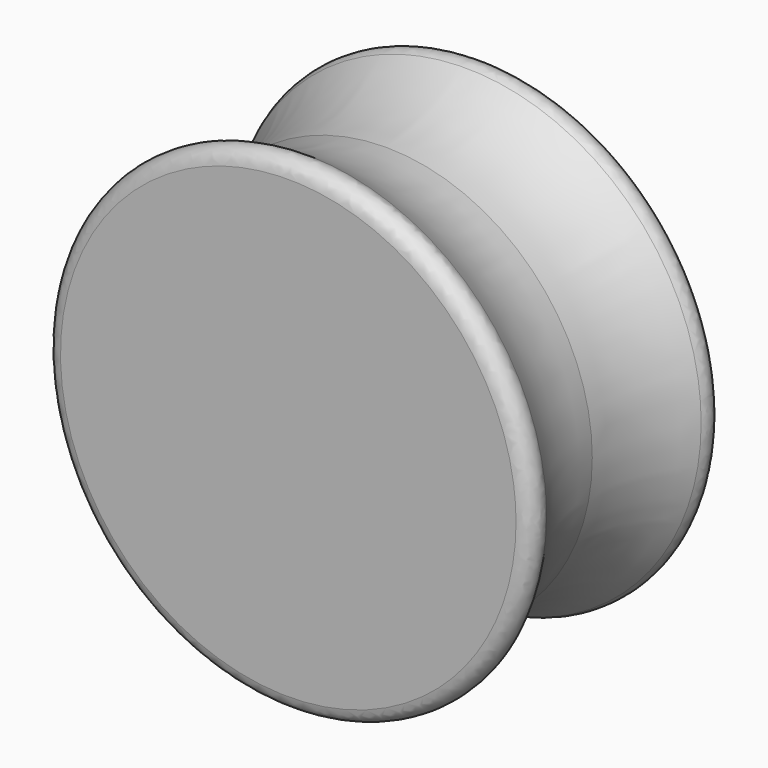
from build123d import *

# Parameters (mm, degrees)
F2_R = 0.5


with BuildPart() as f1:
    # F0 (on Top) → F1 (revolve)
    with BuildSketch(Plane.XY):
        with BuildLine():
            Line((-41.3051520586, -36.2317898357), (-41.3051520586, -40.3967898357))
            Line((-41.3051520586, -40.3967898357), (-32.4301520586, -40.3967898357))
            ThreePointArc((-32.4301520586, -40.3967898357), (-33.7677132318, -38.499358804), (-34.2651520586, -36.2317898357))
            Line((-34.2651520586, -36.2317898357), (-41.3051520586, -36.2317898357))
        make_face()
        with BuildLine():
            Line((-41.3051520586, -32.0667898357), (-41.3051520586, -36.2317898357))
            Line((-41.3051520586, -36.2317898357), (-34.2651520586, -36.2317898357))
            ThreePointArc((-34.2651520586, -36.2317898357), (-33.8600314845, -33.987407396), (-32.6301520586, -32.0667898357))
            Line((-32.6301520586, -32.0667898357), (-41.3051520586, -32.0667898357))
        make_face()
    revolve(axis=Axis((-41.3051520586, -36.2317898357, 0), (0, 1, 0)))

    # F2
    f2_edges = [f1.edges().sort_by_distance(p)[0] for p in [
        (-50.180152, -40.39679, 0),
        (-49.980152, -32.06679, 0),
    ]]
    fillet(f2_edges, radius=F2_R)


solid = f1.part
